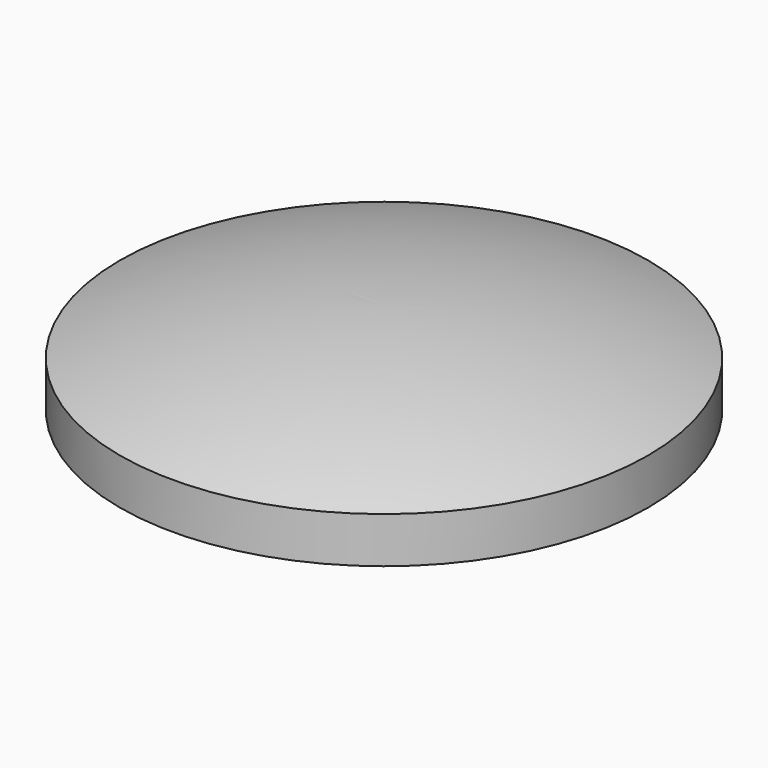
from build123d import *


with BuildPart() as f1:
    # F0 (on Front) → F1 (revolve)
    with BuildSketch(Plane.XZ):
        with BuildLine():
            ThreePointArc((0, 2), (-2.918154, 1.748138), (-5.75, 1))
            Line((-5.75, 1), (-5.75, 0))
            Line((-5.75, 0), (-1, 0))
            Line((-1, 0), (-1, -2))
            Line((-1, -2), (0, -2))
            Line((0, -2), (0, 2))
        make_face()
    revolve(axis=Axis((0, 0, 0), (0, 0, -1)))


solid = f1.part
